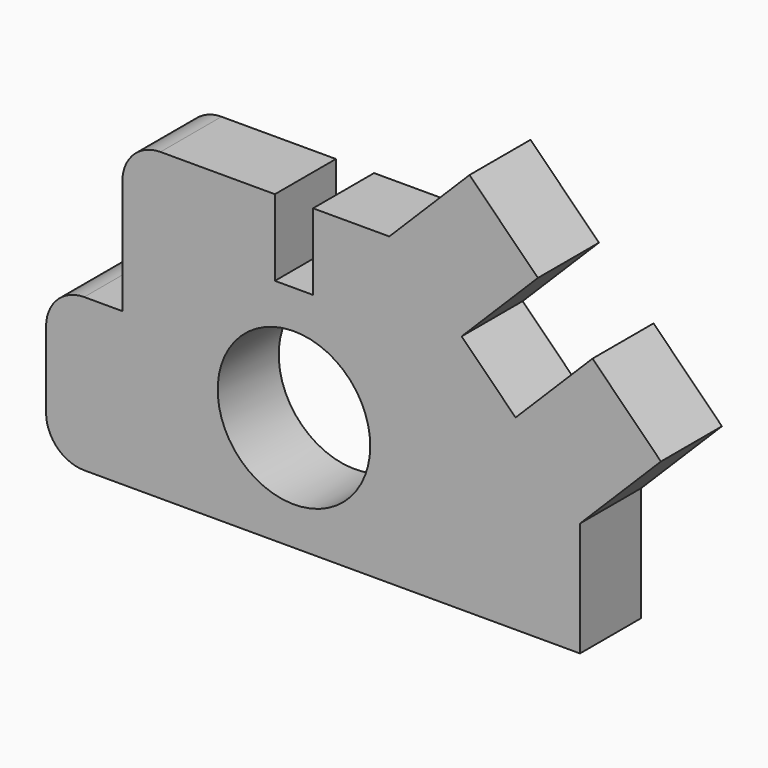
from build123d import *

# Parameters (mm, degrees)
F0_R     = 254
F1_DEPTH = 254


with BuildPart() as f1:
    # F0 (on Front) → F1 (new body)
    with BuildSketch(Plane.XZ):
        with BuildLine():
            ThreePointArc((0, 127), (37.197439, 37.197439), (127, 0))
            Line((127, 0), (1778, 0))
            Line((1778, 0), (1778, 381))
            Line((1778, 381), (2047.407684, 650.407684))
            Line((2047.407684, 650.407684), (1819.710245, 878.105122))
            Line((1819.710245, 878.105122), (1563.455433, 621.85031))
            Line((1563.455433, 621.85031), (1383.85031, 801.455433))
            Line((1383.85031, 801.455433), (1637.772952, 1055.378074))
            Line((1637.772952, 1055.378074), (1410.075513, 1283.075513))
            Line((1410.075513, 1283.075513), (1143, 1016))
            Line((1143, 1016), (889, 1016))
            Line((889, 1016), (889, 762))
            Line((889, 762), (762, 762))
            Line((762, 762), (762, 1016))
            Line((762, 1016), (381, 1016))
            ThreePointArc((381, 1016), (291.197439, 978.802561), (254, 889))
            Line((254, 889), (254, 508))
            Line((254, 508), (127, 508))
            ThreePointArc((127, 508), (37.197439, 470.802561), (0, 381))
            Line((0, 381), (0, 127))
        make_face()
        with Locations((825.5, 381)):
            Circle(F0_R, mode=Mode.SUBTRACT)
    extrude(amount=F1_DEPTH)


solid = f1.part
